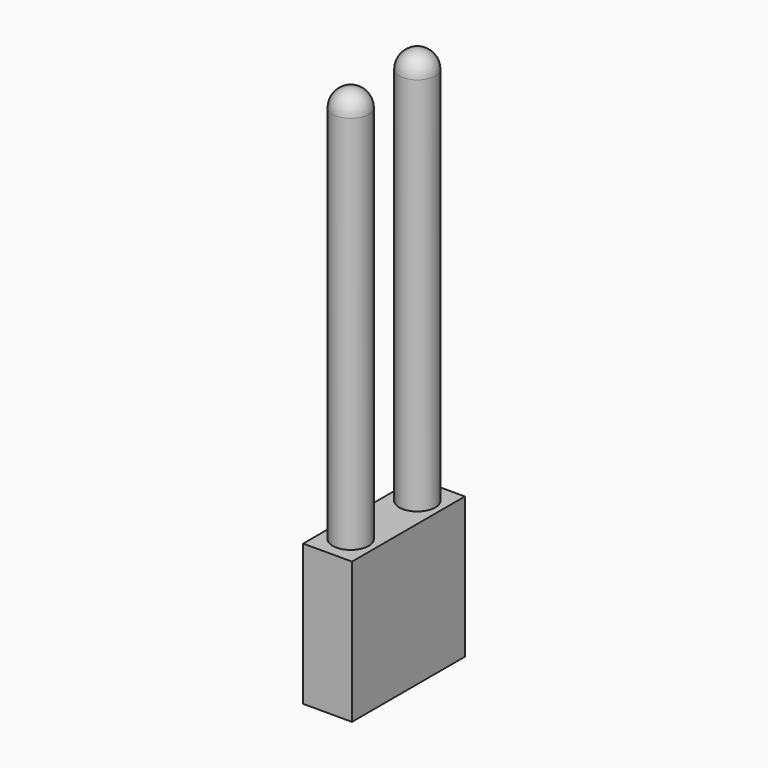
from build123d import *

# Parameters (mm, degrees)
F0_W     = 39
F0_H     = 39
F1_DEPTH = 13.5
F2_R     = 5
F3_DEPTH = 110
F4_R     = 5


with BuildPart() as f1:
    # F0 (on Right) → F1 (new body)
    with BuildSketch(Plane.YZ):
        Rectangle(F0_W, F0_H)
    extrude(amount=F1_DEPTH)

    # F2 (on face) → F3 (join)
    with BuildSketch(Plane.XY.offset(19.5)):
        with Locations((6.75, 11.5)):
            Circle(F2_R)
        with Locations((6.75, -11.5)):
            Circle(F2_R)
    extrude(amount=F3_DEPTH)

    # F4
    f4_edges = [f1.edges().sort_by_distance(p)[0] for p in [
        (1.75, 11.5, 129.5),
        (1.75, -11.5, 129.5),
    ]]
    fillet(f4_edges, radius=F4_R)


solid = f1.part
